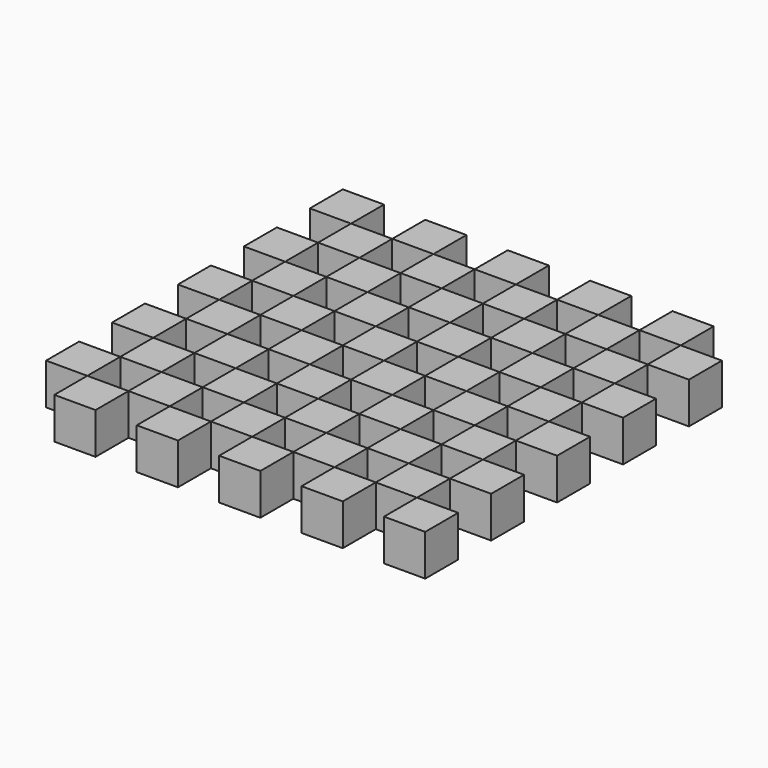
from build123d import *

# Parameters (mm, degrees)
F0_W     = 10
F0_H     = 10
F1_DEPTH = 10


with BuildPart() as f1:
    # F0 (on Top) → F1 (new body)
    with BuildSketch(Plane.XY):
        with Locations((-45, 45)):
            Rectangle(F0_W, F0_H)
    extrude(amount=F1_DEPTH)


with BuildPart() as f1b:
    # F0 (on Top) → F1, piece 2 (new body)
    with BuildSketch(Plane.XY):
        with Locations((-25, 45)):
            Rectangle(F0_W, F0_H)
    extrude(amount=F1_DEPTH)


with BuildPart() as f1c:
    # F0 (on Top) → F1, piece 3 (new body)
    with BuildSketch(Plane.XY):
        with Locations((-5, 45)):
            Rectangle(F0_W, F0_H)
    extrude(amount=F1_DEPTH)


with BuildPart() as f1d:
    # F0 (on Top) → F1, piece 4 (new body)
    with BuildSketch(Plane.XY):
        with Locations((15, 45)):
            Rectangle(F0_W, F0_H)
    extrude(amount=F1_DEPTH)


with BuildPart() as f1e:
    # F0 (on Top) → F1, piece 5 (new body)
    with BuildSketch(Plane.XY):
        with Locations((35, 45)):
            Rectangle(F0_W, F0_H)
    extrude(amount=F1_DEPTH)


with BuildPart() as f1f:
    # F0 (on Top) → F1, piece 6 (new body)
    with BuildSketch(Plane.XY):
        with Locations((45, 35)):
            Rectangle(F0_W, F0_H)
    extrude(amount=F1_DEPTH)


with BuildPart() as f1g:
    # F0 (on Top) → F1, piece 7 (new body)
    with BuildSketch(Plane.XY):
        with Locations((25, 35)):
            Rectangle(F0_W, F0_H)
    extrude(amount=F1_DEPTH)


with BuildPart() as f1h:
    # F0 (on Top) → F1, piece 8 (new body)
    with BuildSketch(Plane.XY):
        with Locations((5, 35)):
            Rectangle(F0_W, F0_H)
    extrude(amount=F1_DEPTH)


with BuildPart() as f1i:
    # F0 (on Top) → F1, piece 9 (new body)
    with BuildSketch(Plane.XY):
        with Locations((-15, 35)):
            Rectangle(F0_W, F0_H)
    extrude(amount=F1_DEPTH)


with BuildPart() as f1j:
    # F0 (on Top) → F1, piece 10 (new body)
    with BuildSketch(Plane.XY):
        with Locations((-35, 35)):
            Rectangle(F0_W, F0_H)
    extrude(amount=F1_DEPTH)


with BuildPart() as f1k:
    # F0 (on Top) → F1, piece 11 (new body)
    with BuildSketch(Plane.XY):
        with Locations((-45, 25)):
            Rectangle(F0_W, F0_H)
    extrude(amount=F1_DEPTH)


with BuildPart() as f1l:
    # F0 (on Top) → F1, piece 12 (new body)
    with BuildSketch(Plane.XY):
        with Locations((-25, 25)):
            Rectangle(F0_W, F0_H)
    extrude(amount=F1_DEPTH)


with BuildPart() as f1m:
    # F0 (on Top) → F1, piece 13 (new body)
    with BuildSketch(Plane.XY):
        with Locations((-5, 25)):
            Rectangle(F0_W, F0_H)
    extrude(amount=F1_DEPTH)


with BuildPart() as f1n:
    # F0 (on Top) → F1, piece 14 (new body)
    with BuildSketch(Plane.XY):
        with Locations((15, 25)):
            Rectangle(F0_W, F0_H)
    extrude(amount=F1_DEPTH)


with BuildPart() as f1o:
    # F0 (on Top) → F1, piece 15 (new body)
    with BuildSketch(Plane.XY):
        with Locations((35, 25)):
            Rectangle(F0_W, F0_H)
    extrude(amount=F1_DEPTH)


with BuildPart() as f1p:
    # F0 (on Top) → F1, piece 16 (new body)
    with BuildSketch(Plane.XY):
        with Locations((45, 15)):
            Rectangle(F0_W, F0_H)
    extrude(amount=F1_DEPTH)


with BuildPart() as f1q:
    # F0 (on Top) → F1, piece 17 (new body)
    with BuildSketch(Plane.XY):
        with Locations((25, 15)):
            Rectangle(F0_W, F0_H)
    extrude(amount=F1_DEPTH)


with BuildPart() as f1r:
    # F0 (on Top) → F1, piece 18 (new body)
    with BuildSketch(Plane.XY):
        with Locations((5, 15)):
            Rectangle(F0_W, F0_H)
    extrude(amount=F1_DEPTH)


with BuildPart() as f1s:
    # F0 (on Top) → F1, piece 19 (new body)
    with BuildSketch(Plane.XY):
        with Locations((-15, 15)):
            Rectangle(F0_W, F0_H)
    extrude(amount=F1_DEPTH)


with BuildPart() as f1t:
    # F0 (on Top) → F1, piece 20 (new body)
    with BuildSketch(Plane.XY):
        with Locations((-35, 15)):
            Rectangle(F0_W, F0_H)
    extrude(amount=F1_DEPTH)


with BuildPart() as f1u:
    # F0 (on Top) → F1, piece 21 (new body)
    with BuildSketch(Plane.XY):
        with Locations((-45, 5)):
            Rectangle(F0_W, F0_H)
    extrude(amount=F1_DEPTH)


with BuildPart() as f1v:
    # F0 (on Top) → F1, piece 22 (new body)
    with BuildSketch(Plane.XY):
        with Locations((-25, 5)):
            Rectangle(F0_W, F0_H)
    extrude(amount=F1_DEPTH)


with BuildPart() as f1w:
    # F0 (on Top) → F1, piece 23 (new body)
    with BuildSketch(Plane.XY):
        with Locations((-5, 5)):
            Rectangle(F0_W, F0_H)
    extrude(amount=F1_DEPTH)


with BuildPart() as f1x:
    # F0 (on Top) → F1, piece 24 (new body)
    with BuildSketch(Plane.XY):
        with Locations((15, 5)):
            Rectangle(F0_W, F0_H)
    extrude(amount=F1_DEPTH)


with BuildPart() as f1y:
    # F0 (on Top) → F1, piece 25 (new body)
    with BuildSketch(Plane.XY):
        with Locations((35, 5)):
            Rectangle(F0_W, F0_H)
    extrude(amount=F1_DEPTH)


with BuildPart() as f1z:
    # F0 (on Top) → F1, piece 26 (new body)
    with BuildSketch(Plane.XY):
        with Locations((45, -5)):
            Rectangle(F0_W, F0_H)
    extrude(amount=F1_DEPTH)


with BuildPart() as f1ba:
    # F0 (on Top) → F1, piece 27 (new body)
    with BuildSketch(Plane.XY):
        with Locations((25, -5)):
            Rectangle(F0_W, F0_H)
    extrude(amount=F1_DEPTH)


with BuildPart() as f1bb:
    # F0 (on Top) → F1, piece 28 (new body)
    with BuildSketch(Plane.XY):
        with Locations((5, -5)):
            Rectangle(F0_W, F0_H)
    extrude(amount=F1_DEPTH)


with BuildPart() as f1bc:
    # F0 (on Top) → F1, piece 29 (new body)
    with BuildSketch(Plane.XY):
        with Locations((-15, -5)):
            Rectangle(F0_W, F0_H)
    extrude(amount=F1_DEPTH)


with BuildPart() as f1bd:
    # F0 (on Top) → F1, piece 30 (new body)
    with BuildSketch(Plane.XY):
        with Locations((-35, -5)):
            Rectangle(F0_W, F0_H)
    extrude(amount=F1_DEPTH)


with BuildPart() as f1be:
    # F0 (on Top) → F1, piece 31 (new body)
    with BuildSketch(Plane.XY):
        with Locations((-45, -15)):
            Rectangle(F0_W, F0_H)
    extrude(amount=F1_DEPTH)


with BuildPart() as f1bf:
    # F0 (on Top) → F1, piece 32 (new body)
    with BuildSketch(Plane.XY):
        with Locations((-25, -15)):
            Rectangle(F0_W, F0_H)
    extrude(amount=F1_DEPTH)


with BuildPart() as f1bg:
    # F0 (on Top) → F1, piece 33 (new body)
    with BuildSketch(Plane.XY):
        with Locations((-5, -15)):
            Rectangle(F0_W, F0_H)
    extrude(amount=F1_DEPTH)


with BuildPart() as f1bh:
    # F0 (on Top) → F1, piece 34 (new body)
    with BuildSketch(Plane.XY):
        with Locations((15, -15)):
            Rectangle(F0_W, F0_H)
    extrude(amount=F1_DEPTH)


with BuildPart() as f1bi:
    # F0 (on Top) → F1, piece 35 (new body)
    with BuildSketch(Plane.XY):
        with Locations((35, -15)):
            Rectangle(F0_W, F0_H)
    extrude(amount=F1_DEPTH)


with BuildPart() as f1bj:
    # F0 (on Top) → F1, piece 36 (new body)
    with BuildSketch(Plane.XY):
        with Locations((45, -25)):
            Rectangle(F0_W, F0_H)
    extrude(amount=F1_DEPTH)


with BuildPart() as f1bk:
    # F0 (on Top) → F1, piece 37 (new body)
    with BuildSketch(Plane.XY):
        with Locations((25, -25)):
            Rectangle(F0_W, F0_H)
    extrude(amount=F1_DEPTH)


with BuildPart() as f1bl:
    # F0 (on Top) → F1, piece 38 (new body)
    with BuildSketch(Plane.XY):
        with Locations((5, -25)):
            Rectangle(F0_W, F0_H)
    extrude(amount=F1_DEPTH)


with BuildPart() as f1bm:
    # F0 (on Top) → F1, piece 39 (new body)
    with BuildSketch(Plane.XY):
        with Locations((-15, -25)):
            Rectangle(F0_W, F0_H)
    extrude(amount=F1_DEPTH)


with BuildPart() as f1bn:
    # F0 (on Top) → F1, piece 40 (new body)
    with BuildSketch(Plane.XY):
        with Locations((-35, -25)):
            Rectangle(F0_W, F0_H)
    extrude(amount=F1_DEPTH)


with BuildPart() as f1bo:
    # F0 (on Top) → F1, piece 41 (new body)
    with BuildSketch(Plane.XY):
        with Locations((-45, -35)):
            Rectangle(F0_W, F0_H)
    extrude(amount=F1_DEPTH)


with BuildPart() as f1bp:
    # F0 (on Top) → F1, piece 42 (new body)
    with BuildSketch(Plane.XY):
        with Locations((-25, -35)):
            Rectangle(F0_W, F0_H)
    extrude(amount=F1_DEPTH)


with BuildPart() as f1bq:
    # F0 (on Top) → F1, piece 43 (new body)
    with BuildSketch(Plane.XY):
        with Locations((-5, -35)):
            Rectangle(F0_W, F0_H)
    extrude(amount=F1_DEPTH)


with BuildPart() as f1br:
    # F0 (on Top) → F1, piece 44 (new body)
    with BuildSketch(Plane.XY):
        with Locations((15, -35)):
            Rectangle(F0_W, F0_H)
    extrude(amount=F1_DEPTH)


with BuildPart() as f1bs:
    # F0 (on Top) → F1, piece 45 (new body)
    with BuildSketch(Plane.XY):
        with Locations((35, -35)):
            Rectangle(F0_W, F0_H)
    extrude(amount=F1_DEPTH)


with BuildPart() as f1bt:
    # F0 (on Top) → F1, piece 46 (new body)
    with BuildSketch(Plane.XY):
        with Locations((45, -45)):
            Rectangle(F0_W, F0_H)
    extrude(amount=F1_DEPTH)


with BuildPart() as f1bu:
    # F0 (on Top) → F1, piece 47 (new body)
    with BuildSketch(Plane.XY):
        with Locations((25, -45)):
            Rectangle(F0_W, F0_H)
    extrude(amount=F1_DEPTH)


with BuildPart() as f1bv:
    # F0 (on Top) → F1, piece 48 (new body)
    with BuildSketch(Plane.XY):
        with Locations((5, -45)):
            Rectangle(F0_W, F0_H)
    extrude(amount=F1_DEPTH)


with BuildPart() as f1bw:
    # F0 (on Top) → F1, piece 49 (new body)
    with BuildSketch(Plane.XY):
        with Locations((-15, -45)):
            Rectangle(F0_W, F0_H)
    extrude(amount=F1_DEPTH)


with BuildPart() as f1bx:
    # F0 (on Top) → F1, piece 50 (new body)
    with BuildSketch(Plane.XY):
        with Locations((-35, -45)):
            Rectangle(F0_W, F0_H)
    extrude(amount=F1_DEPTH)


solid = Compound([f1.part, f1b.part, f1c.part, f1d.part, f1e.part, f1f.part, f1g.part, f1h.part, f1i.part, f1j.part, f1k.part, f1l.part, f1m.part, f1n.part, f1o.part, f1p.part, f1q.part, f1r.part, f1s.part, f1t.part, f1u.part, f1v.part, f1w.part, f1x.part, f1y.part, f1z.part, f1ba.part, f1bb.part, f1bc.part, f1bd.part, f1be.part, f1bf.part, f1bg.part, f1bh.part, f1bi.part, f1bj.part, f1bk.part, f1bl.part, f1bm.part, f1bn.part, f1bo.part, f1bp.part, f1bq.part, f1br.part, f1bs.part, f1bt.part, f1bu.part, f1bv.part, f1bw.part, f1bx.part])
